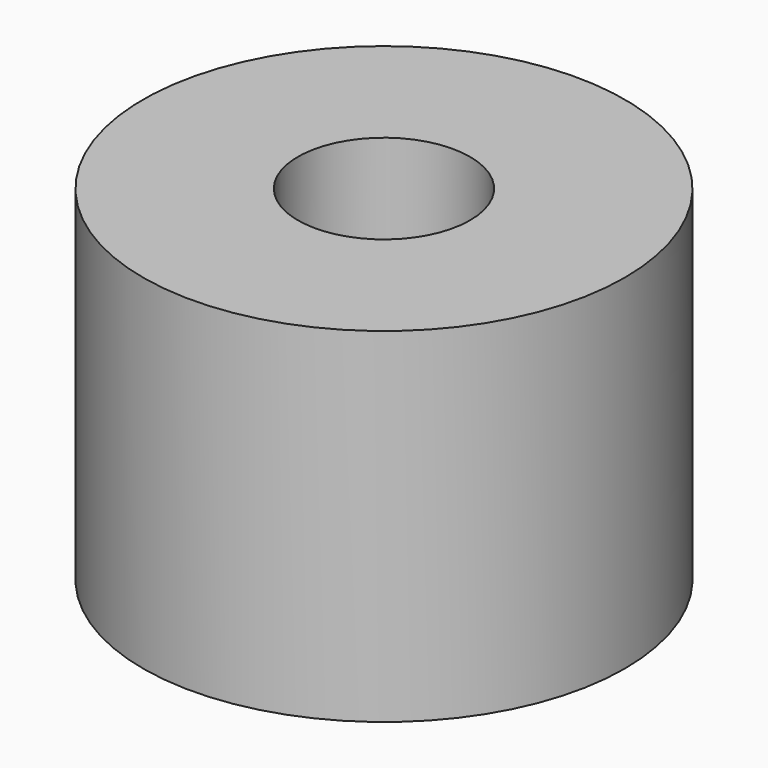
from build123d import *

# Parameters (mm, degrees)
SKETCH_R   = 7
SKETCH_R_2 = 2.5
PAD_DEPTH  = 10


with BuildPart() as part:
    # Sketch → Pad (new body)
    with BuildSketch(Plane.XY):
        Circle(SKETCH_R)
        Circle(SKETCH_R_2, mode=Mode.SUBTRACT)
    extrude(amount=PAD_DEPTH)


solid = part.part
